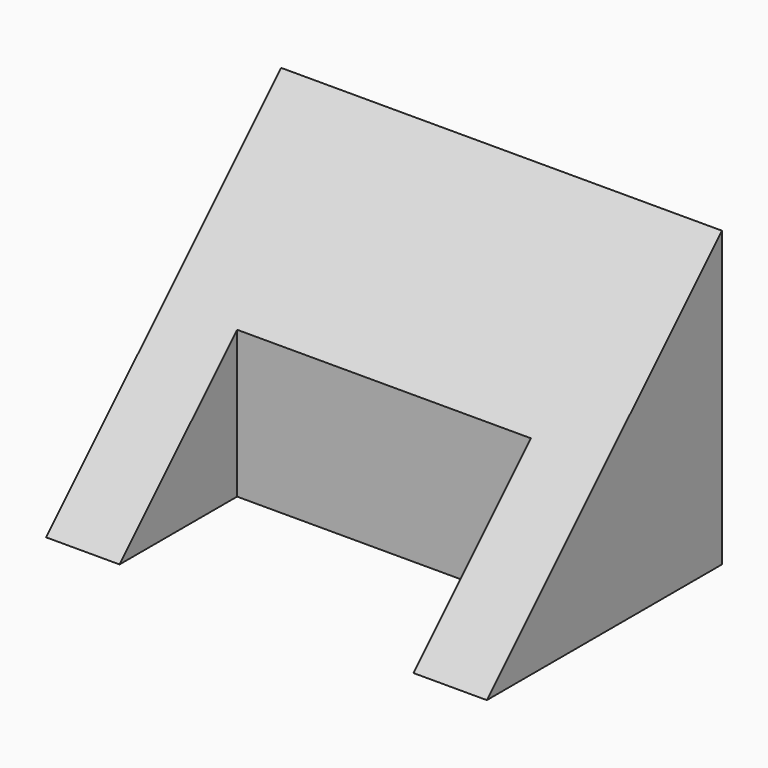
from build123d import *

# Parameters (mm, degrees)
F1_DEPTH = 38.1
F2_W     = 25.4
F2_H     = 12.7
F3_DEPTH = 25.401


with BuildPart() as f1:
    # F0 (on Right) → F1 (new body)
    with BuildSketch(Plane.YZ):
        Polygon((25.4, 25.4), (0, 0), (25.4, 0), align=None)
    extrude(amount=-F1_DEPTH)

    # F2 (on Top) → F3 (cut, through all)
    with BuildSketch(Plane.XY):
        with Locations((-19.05, 6.35)):
            Rectangle(F2_W, F2_H)
    extrude(amount=F3_DEPTH, mode=Mode.SUBTRACT)


solid = f1.part
